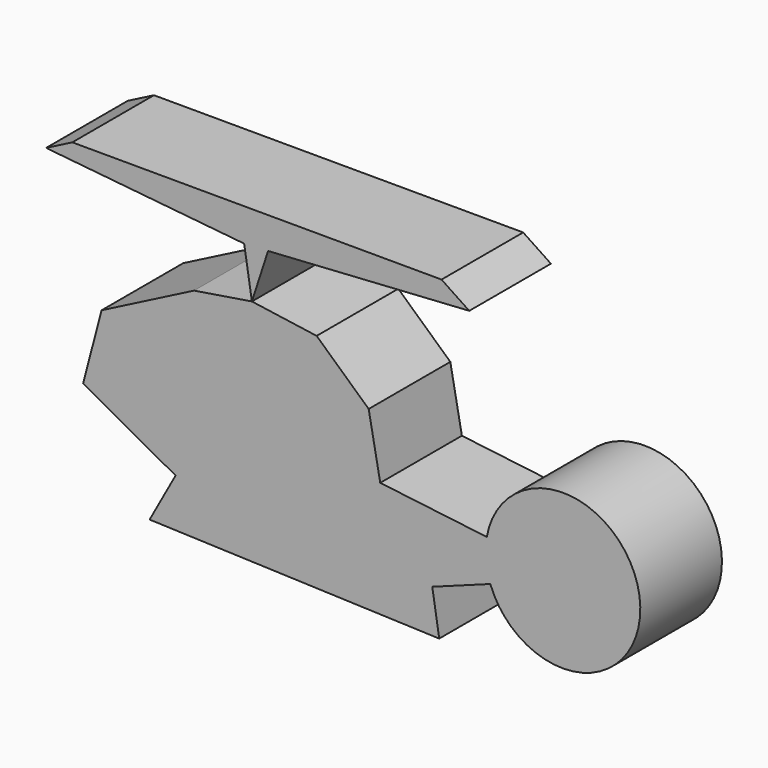
from build123d import *

# Parameters (mm, degrees)
F1_DEPTH = 25


with BuildPart() as f1:
    # F0 (on Front) → F1 (new body)
    with BuildSketch(Plane.XZ):
        Polygon((33.851172775, 0), (0, 0), (-29.0355235338, 3.5409175325), (-35.3991168176, -8.029251426), (35.550814122, -10.6227528304), align=None)
        with BuildLine():
            Line((-29.0355235338, 3.5409175325), (0, 0))
            Line((0, 0), (33.851172775, 0))
            Line((33.851172775, 0), (48.0690621264, 5.2216153217))
            ThreePointArc((48.0690621264, 5.2216153217), (46.9798291481, 10.0973882653), (47.2024012344, 15.0883853545))
            Line((47.2024012344, 15.0883853545), (21.103868261, 18.2711333036))
            Line((21.103868261, 18.2711333036), (18.2711351663, 33.2846231759))
            Line((18.2711351663, 33.2846231759), (5.5238315836, 44.8988303542))
            Line((5.5238315836, 44.8988303542), (-24.5031490922, 44.8988303542))
            Line((-24.5031490922, 44.8988303542), (-47.1650213003, 33.2846231759))
            Line((-47.1650213003, 33.2846231759), (-51.6973957419, 16.0049479455))
            Line((-51.6973957419, 16.0049479455), (-29.0355235338, 3.5409175325))
        make_face()
        with BuildLine():
            ThreePointArc((47.2024012344, 15.0883853545), (46.9798291481, 10.0973882653), (48.0690621264, 5.2216153217))
            Line((48.0690621264, 5.2216153217), (65.8610612154, 11.7558464408))
            Line((65.8610612154, 11.7558464408), (56.0894581134, 14.0045979216))
            Line((56.0894581134, 14.0045979216), (47.2024012344, 15.0883853545))
        make_face()
        with BuildLine():
            Line((65.8610612154, 11.7558464408), (48.0690621264, 5.2216153217))
            ThreePointArc((48.0690621264, 5.2216153217), (69.1794289021, -6.9053390466), (84.8149897765, 11.7558464408))
            ThreePointArc((84.8149897765, 11.7558464408), (67.5338582104, 30.6358135518), (47.2024012344, 15.0883853545))
            Line((47.2024012344, 15.0883853545), (56.0894581134, 14.0045979216))
            Line((56.0894581134, 14.0045979216), (65.8610612154, 11.7558464408))
        make_face()
        Polygon((-10.3394789621, 47.1650213003), (-24.5031490922, 44.8988303542), (5.5238315836, 44.8988303542), align=None)
    extrude(amount=F1_DEPTH)


with BuildPart() as f1b:
    # F0 (on Front) → F1, piece 2 (new body)
    with BuildSketch(Plane.XZ):
        Polygon((-12.2362203028, 59.0196351923), (-10.3394789621, 47.1650213003), (-6.37365086, 59.3457780778), (42.915917933, 62.4617822468), (36.1173599958, 66.9941604137), (-54.3317920304, 67.1737038384), (-60.7621446252, 63.8781487942), align=None)
    extrude(amount=F1_DEPTH)


solid = Compound([f1.part, f1b.part])
